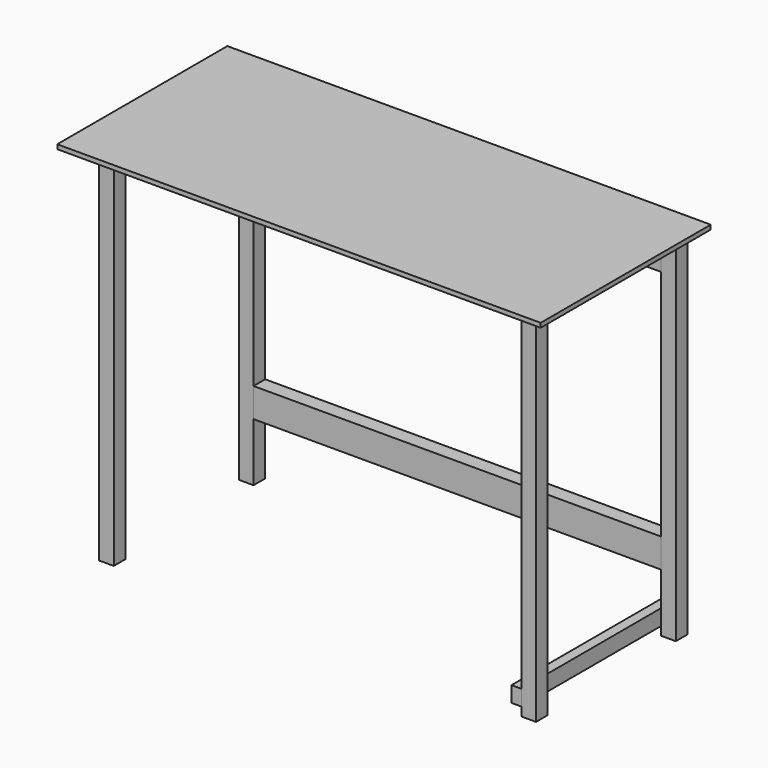
from build123d import *

# Parameters (mm, degrees)
F0_W          = 50
F0_H          = 50
F1_DEPTH      = 1250
F2_W          = 1660
F2_H          = 730
F2_W_2        = 50
F2_H_2        = 50
F3_DEPTH      = 15
F4_W          = 50
F4_H          = 100
F5_DEPTH      = 1400
F6_W          = 34
F6_H          = 54
F7_DEPTH      = 600
F7_DEPTH_BACK = 50


with BuildPart() as f1:
    # F0 (on Top) → F1 (new body)
    with BuildSketch(Plane.XY):
        with Locations((25, 25)):
            Rectangle(F0_W, F0_H)
        with Locations((1475, 25)):
            Rectangle(F0_W, F0_H)
        with Locations((1475, 625)):
            Rectangle(F0_W, F0_H)
        with Locations((25, 625)):
            Rectangle(F0_W, F0_H)
    extrude(amount=F1_DEPTH)


with BuildPart() as f3:
    # F2 (on face) → F3 (new body)
    with BuildSketch(Plane.XY.offset(1250)):
        with Locations((750, 285)):
            Rectangle(F2_W, F2_H)
        with Locations((25, 25)):
            Rectangle(F2_W_2, F2_H_2, mode=Mode.SUBTRACT)
        with Locations((25, 25)):
            Rectangle(F2_W_2, F2_H_2)
    extrude(amount=F3_DEPTH)


with BuildPart() as f5:
    # F4 (on face) → F5 (new body, through all)
    with BuildSketch(Plane.YZ.offset(50)):
        with Locations((625, 250)):
            Rectangle(F4_W, F4_H)
        with Locations((625, 1150)):
            Rectangle(F4_W, F4_H)
    extrude(amount=F5_DEPTH)


with BuildPart() as f7:
    # F6 (on face) → F7 (new body, two sides)
    with BuildSketch(Plane.XZ.offset(-600)) as f7_sk:
        with Locations((1433, 57)):
            Rectangle(F6_W, F6_H)
    extrude(amount=F7_DEPTH)
    extrude(f7_sk.sketch, amount=-F7_DEPTH_BACK)


solid = Compound([f1.part, f3.part, f5.part, f7.part])
